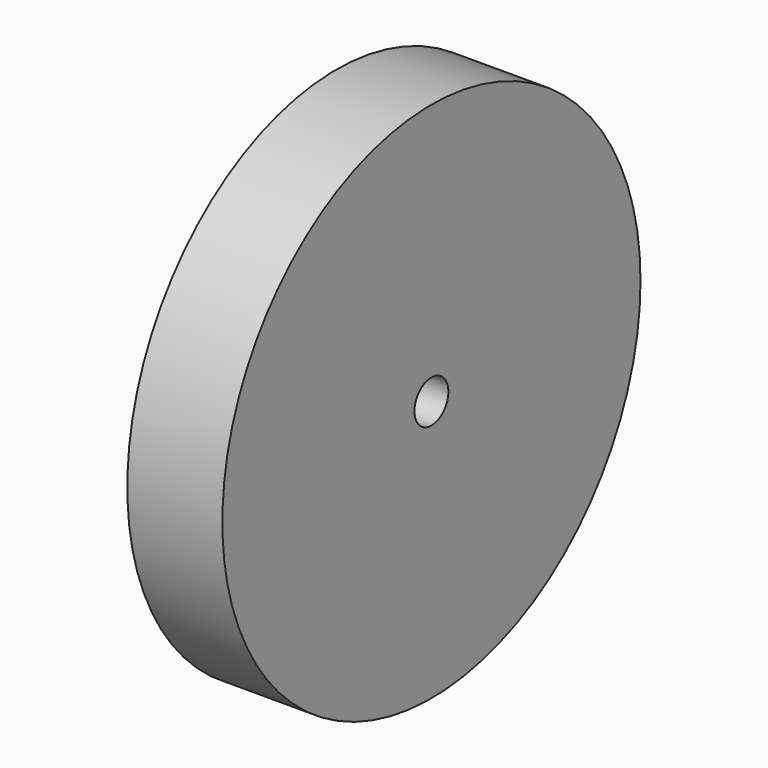
from build123d import *

# Parameters (mm, degrees)
F0_R     = 34.49955
F1_DEPTH = 12.5476
F2_R     = 2.796728
F3_DEPTH = 12.5486


with BuildPart() as f1:
    # F0 (on Right) → F1 (new body)
    with BuildSketch(Plane.YZ):
        Circle(F0_R)
    extrude(amount=F1_DEPTH)

    # F2 (on face) → F3 (cut, through all)
    with BuildSketch(Plane.YZ.offset(12.5476)):
        Circle(F2_R)
    extrude(amount=-F3_DEPTH, mode=Mode.SUBTRACT)


solid = f1.part
